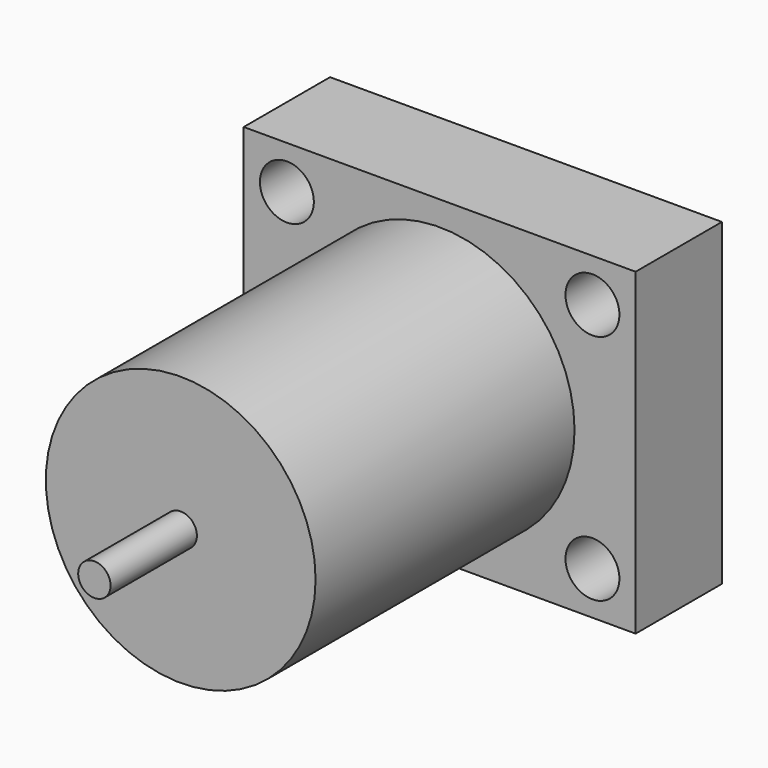
from build123d import *

# Parameters (mm, degrees)
F0_W     = 92.247778
F0_H     = 75.00481
F0_R     = 6.35
F1_DEPTH = 25.4
F2_R     = 31.75
F3_DEPTH = 76.2
F4_R     = 3.81
F5_DEPTH = 25.4


with BuildPart() as f1:
    # F0 (on Front) → F1 (new body)
    with BuildSketch(Plane.XZ):
        Rectangle(F0_W, F0_H)
        with Locations((-35.963889, -27.342405)):
            Circle(F0_R, mode=Mode.SUBTRACT)
        with Locations((35.963889, -27.342405)):
            Circle(F0_R, mode=Mode.SUBTRACT)
        with Locations((-35.963889, 27.342405)):
            Circle(F0_R, mode=Mode.SUBTRACT)
        with Locations((35.963889, 27.342405)):
            Circle(F0_R, mode=Mode.SUBTRACT)
    extrude(amount=F1_DEPTH)

    # F2 (on face) → F3 (join)
    with BuildSketch(Plane.XZ.offset(25.4)):
        Circle(F2_R)
    extrude(amount=F3_DEPTH)

    # F4 (on face) → F5 (join)
    with BuildSketch(Plane.XZ.offset(101.6)):
        Circle(F4_R)
    extrude(amount=F5_DEPTH)


solid = f1.part
